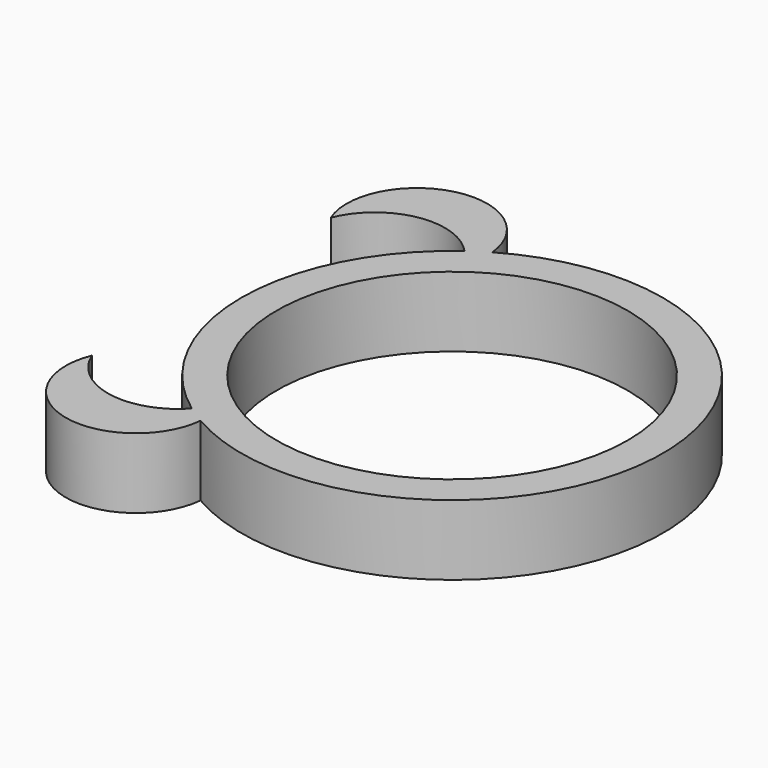
from build123d import *

# Parameters (mm, degrees)
CYLINDER005_R          = 5
CYLINDER005_DEPTH      = 3
CYLINDER003_R          = 2
CYLINDER003_DEPTH      = 4
CYLINDER002_R          = 2
CYLINDER002_DEPTH      = 2
CUT001_PLACEMENT_ANGLE = 180
CYLINDER001_R          = 2
CYLINDER001_DEPTH      = 4
CYLINDER_R             = 2
CYLINDER_DEPTH         = 2
CYLINDER004_R          = 6
CYLINDER004_DEPTH      = 2


with BuildPart() as cylinder005:
    # Cylinder005 → Cylinder005 (new body)
    with BuildSketch(Plane(origin=(5, 5, 0), x_dir=(1, 0, 0), z_dir=(0, 0, 1))):
        Circle(CYLINDER005_R)
    extrude(amount=CYLINDER005_DEPTH)


with BuildPart() as cylinder003:
    # Cylinder003 → Cylinder003 (new body)
    with BuildSketch(Plane(origin=(0, 1.5, 0), x_dir=(1, 0, 0), z_dir=(0, 0, 1))):
        Circle(CYLINDER003_R)
    extrude(amount=CYLINDER003_DEPTH)


with BuildPart() as cut001:
    # Cylinder002 → Cylinder002 (new body)
    with BuildSketch(Plane.XY):
        Circle(CYLINDER002_R)
    extrude(amount=CYLINDER002_DEPTH)

    # Cut001: cut Cylinder003
    add(cylinder003.part, mode=Mode.SUBTRACT)


with BuildPart() as cut001_1:
    # Cut001 placement: moved
    add(cut001.part.moved(Location((0, 10, 0))).rotate(Axis((0, 10, 0), (0, 0, 1)), CUT001_PLACEMENT_ANGLE))


with BuildPart() as cylinder001:
    # Cylinder001 → Cylinder001 (new body)
    with BuildSketch(Plane(origin=(0, 1.5, 0), x_dir=(1, 0, 0), z_dir=(0, 0, 1))):
        Circle(CYLINDER001_R)
    extrude(amount=CYLINDER001_DEPTH)


with BuildPart() as cut:
    # Cylinder → Cylinder (new body)
    with BuildSketch(Plane.XY):
        Circle(CYLINDER_R)
    extrude(amount=CYLINDER_DEPTH)

    # Cut: cut Cylinder001
    add(cylinder001.part, mode=Mode.SUBTRACT)


with BuildPart() as cut002:
    # Cylinder004 → Cylinder004 (new body)
    with BuildSketch(Plane(origin=(5, 5, 0), x_dir=(1, 0, 0), z_dir=(0, 0, 1))):
        Circle(CYLINDER004_R)
    extrude(amount=CYLINDER004_DEPTH)

    # Fusion: union Cut001, Cut
    add(cut001_1.part)
    add(cut.part)

    # Cut002: cut Cylinder005
    add(cylinder005.part, mode=Mode.SUBTRACT)


solid = cut002.part
